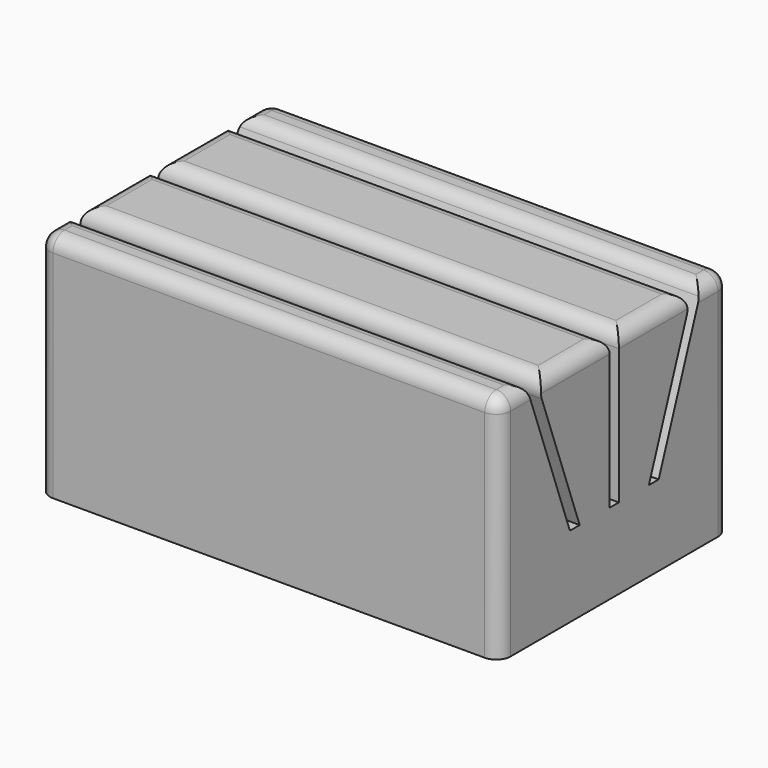
from build123d import *

# Parameters (mm, degrees)
F0_W     = 160
F0_H     = 100
F1_DEPTH = 80
F2_W     = 4
F2_H     = 52
F3_DEPTH = 160
F4_R     = 5


with BuildPart() as f1:
    # F0 (on Top) → F1 (new body)
    with BuildSketch(Plane.XY):
        with Locations((80, 50)):
            Rectangle(F0_W, F0_H)
    extrude(amount=F1_DEPTH)

    # F2 (on face) → F3 (cut, through all)
    with BuildSketch(Plane(origin=(0, 0, 0), x_dir=(0, -1, 0), z_dir=(-1, 0, 0))):
        Polygon((-65.0198098907, 28), (-83.9462620725, 80), (-88.2029731624, 80), (-69.2765209806, 28), align=None)
        with Locations((-50, 54)):
            Rectangle(F2_W, F2_H)
        Polygon((-30.7234790194, 28), (-11.7970268376, 80), (-16.0537379275, 80), (-34.9801901093, 28), align=None)
    extrude(amount=-F3_DEPTH, mode=Mode.SUBTRACT)

    # F4
    f4_edges = [f1.edges().sort_by_distance(p)[0] for p in [
        (80, 0, 80),
        (80, 100, 80),
        (160, 94.101487, 80),
        (160, 67.973131, 80),
        (160, 32.026869, 80),
        (160, 5.898513, 80),
        (0, 5.898513, 80),
        (0, 32.026869, 80),
        (0, 67.973131, 80),
        (0, 94.101487, 80),
        (160, 100, 40),
        (0, 100, 40),
        (160, 0, 40),
        (0, 0, 40),
        (80, 48, 80),
        (80, 52, 80),
        (80, 83.946262, 80),
        (80, 88.202973, 80),
        (80, 16.053738, 80),
        (80, 11.797027, 80),
    ]]
    fillet(f4_edges, radius=F4_R)


solid = f1.part
